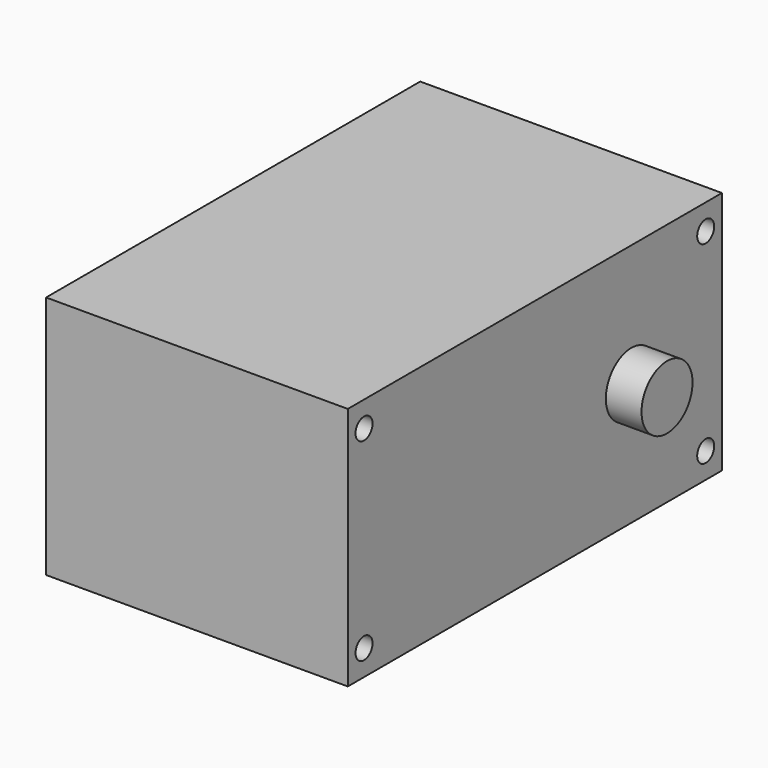
from build123d import *

# Parameters (mm, degrees)
SKETCH_W     = 44.02
SKETCH_H     = 23
SKETCH_R     = 1
PAD_DEPTH    = 14.2
SKETCH001_R  = 3
PAD001_DEPTH = 3.36


with BuildPart() as part:
    # Sketch → Pad (new body, symmetric)
    with BuildSketch(Plane.YZ):
        Rectangle(SKETCH_W, SKETCH_H)
        with Locations((-20.1, -9.1)):
            Circle(SKETCH_R, mode=Mode.SUBTRACT)
        with Locations((20.1, -9.1)):
            Circle(SKETCH_R, mode=Mode.SUBTRACT)
        with Locations((-20.1, 9.1)):
            Circle(SKETCH_R, mode=Mode.SUBTRACT)
        with Locations((20.1, 9.1)):
            Circle(SKETCH_R, mode=Mode.SUBTRACT)
    extrude(amount=PAD_DEPTH, both=True)

    # Sketch001 (on Face10 of Pad) → Pad001 (join)
    with BuildSketch(Plane.YZ.offset(14.2)):
        with Locations((11.35, 0)):
            Circle(SKETCH001_R)
    pad001 = extrude(amount=PAD001_DEPTH)

    # Mirrored: Pad001 across YZ
    add(pad001.mirror(Plane.YZ))


solid = part.part
